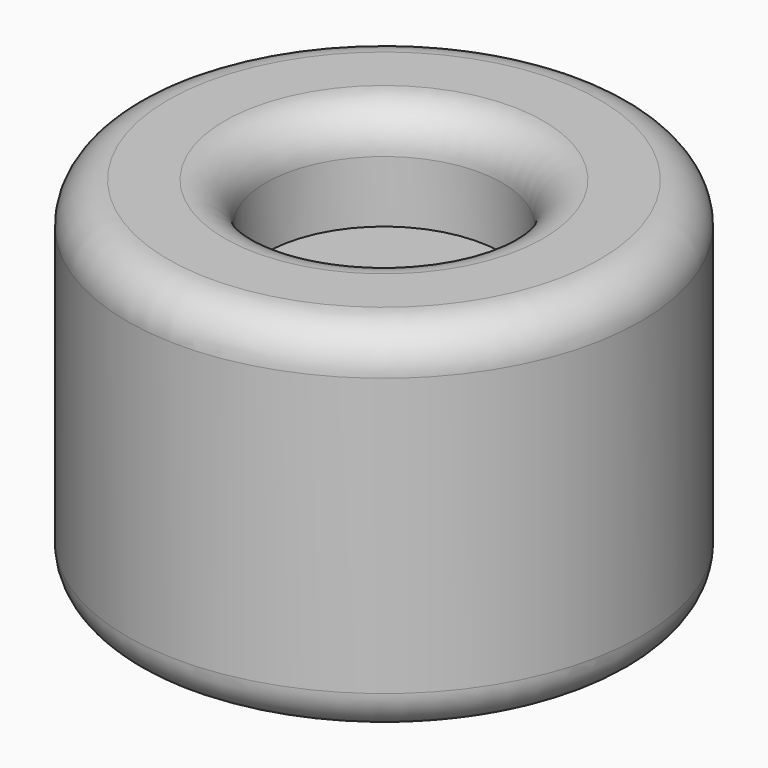
from build123d import *

# Parameters (mm, degrees)
F0_R     = 31.75
F1_DEPTH = 44.45
F2_R     = 14.605
F3_DEPTH = 12.7
F4_R     = 5.08


with BuildPart() as f1:
    # F0 (on Top) → F1 (new body)
    with BuildSketch(Plane.XY):
        with Locations((-17.237177, 10.784758)):
            Circle(F0_R)
    extrude(amount=F1_DEPTH)

    # F2 (on face) → F3 (cut)
    with BuildSketch(Plane.XY.offset(44.45)):
        with Locations((-17.237177, 10.784758)):
            Circle(F2_R)
    extrude(amount=-F3_DEPTH, mode=Mode.SUBTRACT)

    # F4
    f4_edges = [f1.edges().sort_by_distance(p)[0] for p in [
        (-48.987177, 10.784758, 44.45),
        (-48.987177, 10.784758, 0),
        (-31.842177, 10.784758, 44.45),
    ]]
    fillet(f4_edges, radius=F4_R)


solid = f1.part
